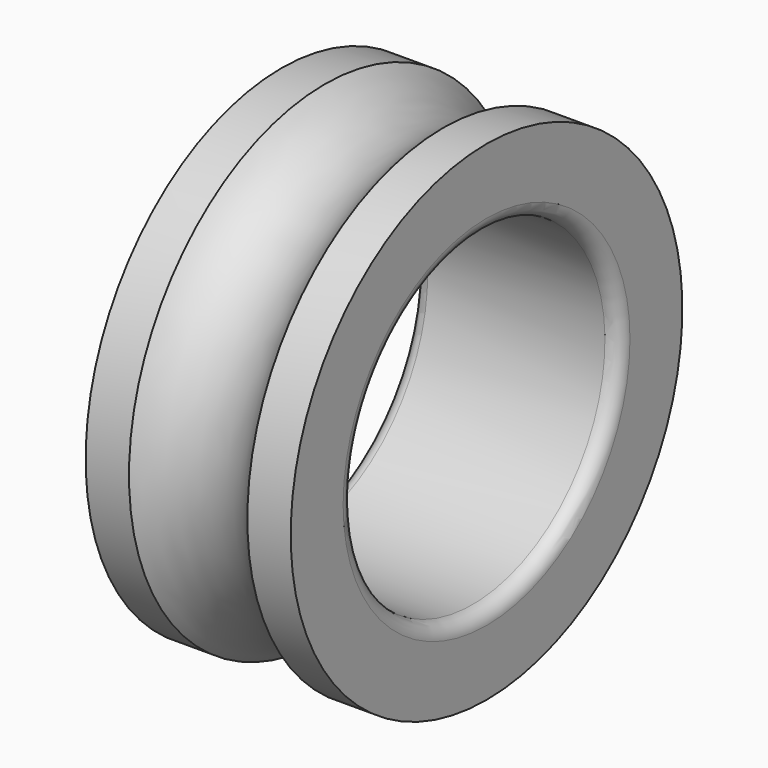
from build123d import *


with BuildPart() as f1:
    # F0 (on Front) → F1 (revolve)
    with BuildSketch(Plane.XZ):
        with BuildLine():
            ThreePointArc((-393.7, 688.34), (-378.077076, 650.622924), (-340.36, 635))
            Line((-340.36, 635), (0, 635))
            Line((0, 635), (340.36, 635))
            ThreePointArc((340.36, 635), (378.077076, 650.622924), (393.7, 688.34))
            Line((393.7, 688.34), (393.7, 939.8))
            Line((393.7, 939.8), (227.184507, 939.8))
            ThreePointArc((227.184507, 939.8), (0, 838.2), (-227.184507, 939.8))
            Line((-227.184507, 939.8), (-393.7, 939.8))
            Line((-393.7, 939.8), (-393.7, 688.34))
        make_face()
    revolve(axis=Axis((223.868585, 0, 0), (1, 0, 0)))


solid = f1.part
